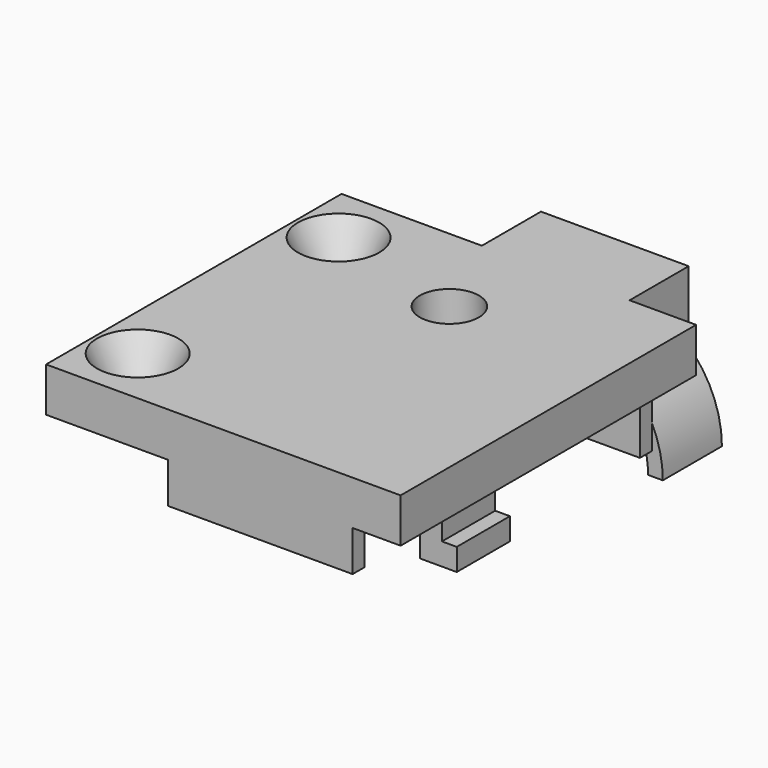
from build123d import *

# Parameters (mm, degrees)
BOX006_W          = 5
BOX006_H          = 5
BOX006_DEPTH      = 3.9
CYLINDER003_R     = 2
CYLINDER003_DEPTH = 10
CYLINDER002_R     = 6.25
CYLINDER002_DEPTH = 10
BOX004_W          = 10
BOX004_H          = 5
BOX004_DEPTH      = 4.5
BOX003_W          = 20
BOX003_H          = 10
BOX003_DEPTH      = 10
CYLINDER001_R     = 6.25
CYLINDER001_DEPTH = 5
CYLINDER_R        = 7.25
CYLINDER_DEPTH    = 5
BOX_W             = 24
BOX_H             = 25
BOX_DEPTH         = 3
BOX001_W          = 1.5
BOX001_H          = 4.5
BOX001_DEPTH      = 5
BOX002_W          = 2.5
BOX002_H          = 4.5
BOX002_DEPTH      = 1.5
BOX005_W          = 13
BOX005_H          = 1
BOX005_DEPTH      = 5.5
BOX007_W          = 12.5
BOX007_H          = 1
BOX007_DEPTH      = 2.75


with BuildPart() as cube006:
    # Box006 → Box006 (new body)
    with BuildSketch(Plane(origin=(10, 8, -3.9), x_dir=(1, 0, 0), z_dir=(0, 0, 1))):
        with Locations((2.5, 2.5)):
            Rectangle(BOX006_W, BOX006_H)
    extrude(amount=BOX006_DEPTH)


with BuildPart() as cylinder003:
    # Cylinder003 → Cylinder003 (new body)
    with BuildSketch(Plane(origin=(12.5, 18.5, 0), x_dir=(1, 0, 0), z_dir=(0, 0, 1))):
        Circle(CYLINDER003_R)
    extrude(amount=CYLINDER003_DEPTH)


with BuildPart() as cylinder002:
    # Cylinder002 → Cylinder002 (new body)
    with BuildSketch(Plane(origin=(14.5, 30, -7), x_dir=(1, 0, 0), z_dir=(0, -1, 0))):
        Circle(CYLINDER002_R)
    extrude(amount=CYLINDER002_DEPTH)


with BuildPart() as cut004:
    # Box004 → Box004 (new body)
    with BuildSketch(Plane(origin=(9.5, 25, -1.5), x_dir=(1, 0, 0), z_dir=(0, 0, 1))):
        with Locations((5, 2.5)):
            Rectangle(BOX004_W, BOX004_H)
    extrude(amount=BOX004_DEPTH)

    # Cut004: cut Cylinder002
    add(cylinder002.part, mode=Mode.SUBTRACT)


with BuildPart() as cube003:
    # Box003 → Box003 (new body)
    with BuildSketch(Plane(origin=(5, 25, -17), x_dir=(1, 0, 0), z_dir=(0, 0, 1))):
        with Locations((10, 5)):
            Rectangle(BOX003_W, BOX003_H)
    extrude(amount=BOX003_DEPTH)


with BuildPart() as cylinder001:
    # Cylinder001 → Cylinder001 (new body)
    with BuildSketch(Plane(origin=(14.5, 30, -4.5), x_dir=(1, 0, 0), z_dir=(0, -1, 0))):
        Circle(CYLINDER001_R)
    extrude(amount=CYLINDER001_DEPTH)


with BuildPart() as fusion002:
    # Cylinder → Cylinder (new body)
    with BuildSketch(Plane(origin=(14.5, 30, -4.5), x_dir=(1, 0, 0), z_dir=(0, -1, 0))):
        Circle(CYLINDER_R)
    extrude(amount=CYLINDER_DEPTH)

    # Cut002: cut Cylinder001
    add(cylinder001.part, mode=Mode.SUBTRACT)


with BuildPart() as fusion002_1:
    # Cut002 placement: moved
    add(fusion002.part.moved(Location((0, 0, -2.5))))

    # Cut003: cut Cube003
    add(cube003.part, mode=Mode.SUBTRACT)

    # Fusion002: union Cut004
    add(cut004.part)


with BuildPart() as cone001:
    # Cone001 → Cone001 (revolve)
    with BuildSketch(Plane(origin=(3, 21, 0), x_dir=(1, 0, 0), z_dir=(0, -1, 0))):
        Polygon((0, 0), (1.25, 0), (2.75, 3), (0, 3), align=None)
    revolve(axis=Axis((3, 21, 0), (0, 0, 1)))


with BuildPart() as cone:
    # Cone → Cone (revolve)
    with BuildSketch(Plane(origin=(3, 4, 0), x_dir=(1, 0, 0), z_dir=(0, -1, 0))):
        Polygon((0, 0), (1.25, 0), (2.75, 3), (0, 3), align=None)
    revolve(axis=Axis((3, 4, 0), (0, 0, 1)))


with BuildPart() as cut001:
    # Box → Box (new body)
    with BuildSketch(Plane.XY):
        with Locations((12, 12.5)):
            Rectangle(BOX_W, BOX_H)
    extrude(amount=BOX_DEPTH)

    # Cut: cut Cone
    add(cone.part, mode=Mode.SUBTRACT)

    # Cut001: cut Cone001
    add(cone001.part, mode=Mode.SUBTRACT)


with BuildPart() as cube001:
    # Box001 → Box001 (new body)
    with BuildSketch(Plane(origin=(21.5, 4.75, -3.5), x_dir=(1, 0, 0), z_dir=(0, 0, 1))):
        with Locations((0.75, 2.25)):
            Rectangle(BOX001_W, BOX001_H)
    extrude(amount=BOX001_DEPTH)


with BuildPart() as fusion003:
    # Box002 → Box002 (new body)
    with BuildSketch(Plane(origin=(21.5, 4.75, -3.5), x_dir=(1, 0, 0), z_dir=(0, 0, 1))):
        with Locations((1.25, 2.25)):
            Rectangle(BOX002_W, BOX002_H)
    extrude(amount=BOX002_DEPTH)

    # Fusion: union Cube001
    add(cube001.part)

    # Fusion001: union Cut001
    add(cut001.part)

    # Fusion003: union Fusion002
    add(fusion002_1.part)


with BuildPart() as fusion005:
    # Box005 → Box005 (new body)
    with BuildSketch(Plane(origin=(8, 24, -5.5), x_dir=(1, 0, 0), z_dir=(0, 0, 1))):
        with Locations((6.5, 0.5)):
            Rectangle(BOX005_W, BOX005_H)
    extrude(amount=BOX005_DEPTH)

    # Fusion004: union Fusion003
    add(fusion003.part)

    # Cut005: cut Cylinder003
    add(cylinder003.part, mode=Mode.SUBTRACT)

    # Fusion005: union Cube006
    add(cube006.part)


with BuildPart() as fusion006:
    # Box007 → Box007 (new body)
    with BuildSketch(Plane(origin=(8.25, 0, -2.75), x_dir=(1, 0, 0), z_dir=(0, 0, 1))):
        with Locations((6.25, 0.5)):
            Rectangle(BOX007_W, BOX007_H)
    extrude(amount=BOX007_DEPTH)

    # Fusion006: union Fusion005
    add(fusion005.part)


solid = fusion006.part
